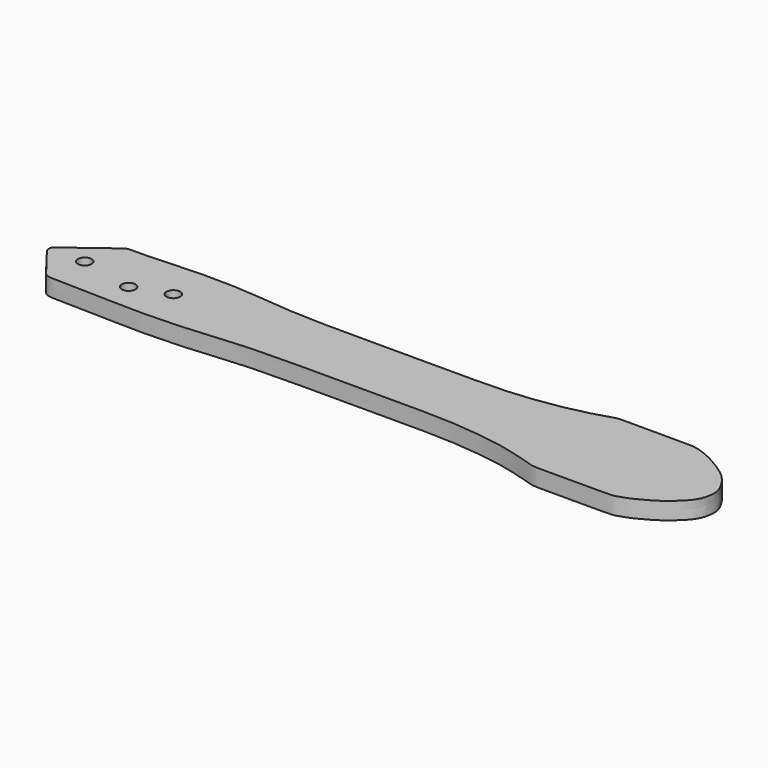
from build123d import *

# Parameters (mm, degrees)
F1_R     = 1.6
F2_DEPTH = 4


with BuildPart() as f2:
    # F1 (on Top) → F2 (new body)
    with BuildSketch(Plane.XY):
        with BuildLine():
            add(Edge.make_bspline(
                [(-67.7846300052, 7.8787184763), (-67.5472572237, 8.0461274543), (-67.456928646, 8.0819010692), (-66.4953398296, 8.8748337097), (-65.0478426523, 8.760692807), (-59.8663770002, 8.8649681938), (-54.8486422575, 9.2587462651), (-47.3526618817, 9.4882106445), (-38.5519947494, 9.2175107683), (-31.3800423987, 8.3512661737), (-22.8756902867, 7.8400972455), (-12.5368369225, 7.857304236), (-0.4462505951, 7.8600527886), (16.8342030036, 7.8273159392), (24.3147241438, 8.0717626409), (34.0442222718, 9.2594292442), (41.9778399942, 11.2745669709), (44.8217316537, 12.3420289262), (46.6856535259, 12.3229983446), (54.2545705716, 12.3578632342), (61.4057655788, 12.2148867006), (62.4307437841, 12.3525115885), (65.672361766, 11.6059727569), (70.0061763313, 9.2911235591), (74.5674132532, 6.2192526651), (76.9064258328, 2.0836207162), (77.14449461, 0.2701793809), (76.8861924233, -1.8878447979), (75.9296983618, -4.091354314), (74.0943709525, -5.8613971311), (72.6003278903, -7.2733780168), (70.5011051137, -8.751992295), (68.7499996413, -9.7472157947), (66.8372317248, -10.7624040996), (64.9934593774, -11.4571216113), (63.4187695538, -11.9760380945), (61.5663804128, -12.0619566242), (54.2631536703, -12.0353363084), (48.0545418222, -12.0469954319), (45.5680224197, -12.0765987457), (43.8137703932, -11.8900112719), (39.3604363406, -10.3995895136), (34.7938899726, -9.2596636492), (29.004868598, -8.3793506289), (20.6899894982, -7.6209614306), (11.272396069, -7.6483375857), (3.6685827304, -7.6769814845), (0.7005728331, -7.6148053674), (-19.2573211718, -7.6527869572), (-26.5380120206, -7.9408516899), (-34.3649127586, -8.6660102828), (-39.9388076378, -9.1208807092), (-50.4185462343, -9.4826800546), (-58.223475762, -9.0541571099), (-68.7023801265, -8.9769371824), (-70.6454446753, -8.830541416), (-71.4241014288, -8.5050799483), (-71.8550475107, -8.2754919643), (-77.1912860923, -1.3192488746), (-77.6074992342, -0.5755481073), (-77.6216004887, 0.4246204261), (-76.7899773793, 1.1677189734), (-68.9340890558, 7.0680536488), (-67.7846300052, 7.8787184763)],
                knots=[0, 0, 0, 0, 0.0052454886, 0.012820973, 0.0219037551, 0.0389287772, 0.0564389159, 0.0772466718, 0.0999373776, 0.1204265405, 0.1424921143, 0.1667432151, 0.1939150227, 0.2253430087, 0.2464965731, 0.2703057319, 0.2922417129, 0.3047679993, 0.3146646545, 0.3360591068, 0.3563314432, 0.3638603111, 0.3770284241, 0.3942686791, 0.4123896769, 0.4285426928, 0.4386501822, 0.4496113152, 0.4614225366, 0.4734616797, 0.4845035068, 0.4965982932, 0.507511177, 0.5186848666, 0.5294452712, 0.5389029903, 0.5490187356, 0.5697060143, 0.589194026, 0.6006431851, 0.6105071827, 0.6267720443, 0.643559871, 0.6617999609, 0.6838687853, 0.707900226, 0.7280320444, 0.7419147783, 0.7753209796, 0.797471854, 0.8178147648, 0.8362236202, 0.8603471851, 0.8830003413, 0.9072240295, 0.9174952381, 0.9235973421, 0.9293237605, 0.951671223, 0.9595082656, 0.965883858, 0.9745991334, 1, 1, 1, 1], degree=3))
        make_face()
        with Locations((-69.3539306521, 0)):
            Circle(F1_R, mode=Mode.SUBTRACT)
        with Locations((-56.8847432733, -2.8174959589)):
            Circle(F1_R, mode=Mode.SUBTRACT)
        with Locations((-48.7223193049, 0)):
            Circle(F1_R, mode=Mode.SUBTRACT)
    extrude(amount=F2_DEPTH)


solid = f2.part
